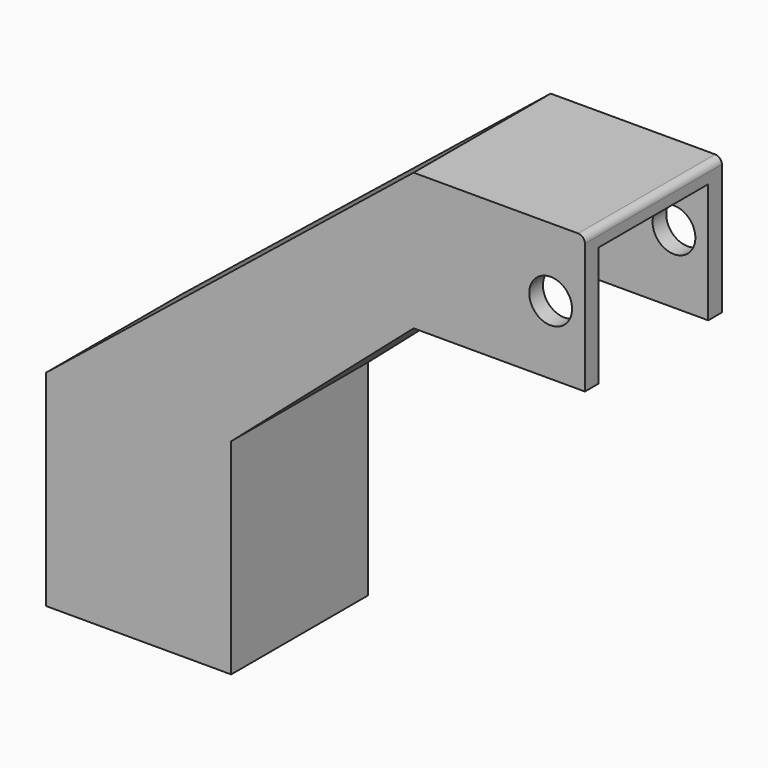
from build123d import *

# Parameters (mm, degrees)
F0_W      = 127
F0_H      = 127
F1_DEPTH  = 101.6
F2_W      = 101.6
F2_H      = 88.9
F3_DEPTH  = 114.3
F4_R      = 15.875
F5_DEPTH  = 127.001
F6_R      = 5.08
F8_DEPTH  = 127
F9_W      = 137.247718
F9_H      = 152.4
F10_DEPTH = 127


with BuildPart() as f1:
    # F0 (on Top) → F1 (new body)
    with BuildSketch(Plane.XY):
        with Locations((63.5, 63.5)):
            Rectangle(F0_W, F0_H)
    extrude(amount=-F1_DEPTH)

    # F2 (on face) → F3 (cut)
    with BuildSketch(Plane.YZ.offset(127)):
        with Locations((63.5, -57.15)):
            Rectangle(F2_W, F2_H)
    extrude(amount=-F3_DEPTH, mode=Mode.SUBTRACT)

    # F4 (on face) → F5 (cut, through all)
    with BuildSketch(Plane.XZ):
        with Locations((101.6, -50.8)):
            Circle(F4_R)
    extrude(amount=-F5_DEPTH, mode=Mode.SUBTRACT)

    # F6
    f6_edges = [f1.edges().sort_by_distance(p)[0] for p in [
        (127, 63.5, 0),
    ]]
    fillet(f6_edges, radius=F6_R)

    # F7 (on face) → F8 (join)
    with BuildSketch(Plane.XZ):
        Polygon((0, -101.6), (0, 0), (-272.546083, -219.168201), (-135.084967, -219.168201), align=None)
    extrude(amount=-F8_DEPTH)

    # F9 (on face) → F10 (join)
    with BuildSketch(Plane.XZ):
        with Locations((-203.922224, -295.368201)):
            Rectangle(F9_W, F9_H)
    extrude(amount=-F10_DEPTH)


solid = f1.part
